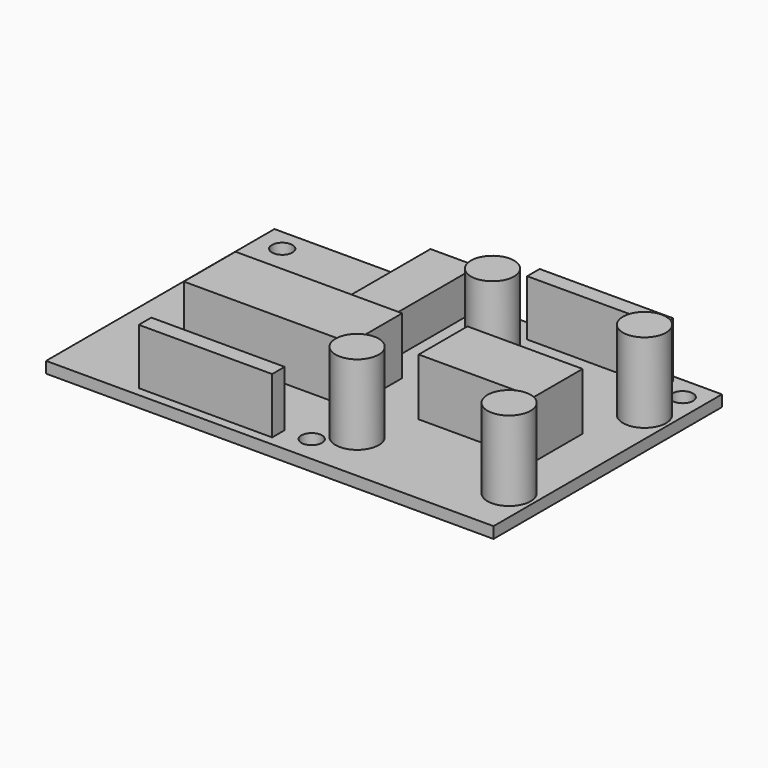
from build123d import *

# Parameters (mm, degrees)
F0_W     = 67.4
F0_H     = 43
F1_DEPTH = 1.7
F2_R     = 1.55
F3_DEPTH = 25
F4_W     = 25.107336
F4_H     = 9.729092
F4_W_2   = 17.339753
F4_H_2   = 9.179869
F5_DEPTH = 8.6
F4_R     = 3.25
F6_DEPTH = 12
F4_W_3   = 20.085868
F4_H_3   = 2.353814
F4_H_4   = 2.353812
F7_DEPTH = 8.4
F4_W_4   = 7.061438
F4_H_5   = 17.231865
F8_DEPTH = 5.8


with BuildPart() as f1:
    # F0 (on Top) → F1 (new body)
    with BuildSketch(Plane.XY):
        Rectangle(F0_W, F0_H)
    extrude(amount=F1_DEPTH)

    # F2 (on face) → F3 (cut)
    with BuildSketch(Plane.XY.offset(1.7)):
        with Locations((-29.85, 18.15)):
            Circle(F2_R)
        with Locations((3.15, -17.55)):
            Circle(F2_R)
        with Locations((30.55, 18.05)):
            Circle(F2_R)
    extrude(amount=-F3_DEPTH, mode=Mode.SUBTRACT)

    # F4 (on face) → F5 (join)
    with BuildSketch(Plane.XY.offset(1.7)):
        with Locations((-10.797692, -3.640961)):
            Rectangle(F4_W, F4_H)
        with Locations((18.507275, -1.169458)):
            Rectangle(F4_W_2, F4_H_2)
    extrude(amount=F5_DEPTH)

    # F4 (on face) → F6 (join)
    with BuildSketch(Plane.XY.offset(1.7)):
        with Locations((7.008187, -13.818246)):
            Circle(F4_R)
        with Locations((7.008187, 11.673535)):
            Circle(F4_R)
        with Locations((29.902235, 11.673535)):
            Circle(F4_R)
        with Locations((29.902235, -13.818246)):
            Circle(F4_R)
    extrude(amount=F6_DEPTH)

    # F4 (on face) → F7 (join)
    with BuildSketch(Plane.XY.offset(1.7)):
        with Locations((-10.797692, -18.940743)):
            Rectangle(F4_W_3, F4_H_3)
        with Locations((17.134217, 19.269482)):
            Rectangle(F4_W_3, F4_H_4)
    extrude(amount=F7_DEPTH)

    # F4 (on face) → F8 (join)
    with BuildSketch(Plane.XY.offset(1.7)):
        with Locations((-5.697765, 11.673535)):
            Rectangle(F4_W_4, F4_H_5)
    extrude(amount=F8_DEPTH)


solid = f1.part
